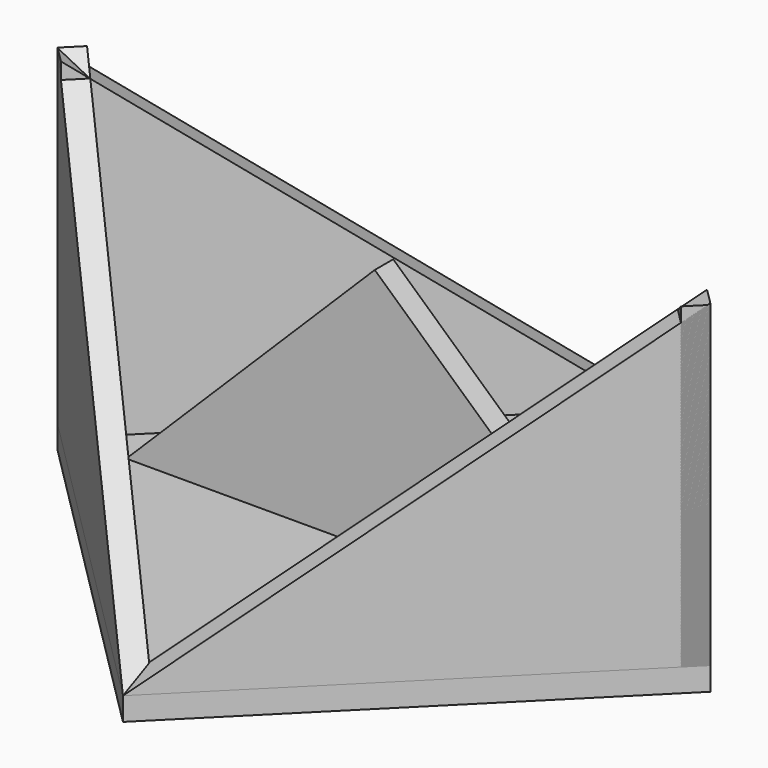
from build123d import *

# Parameters (mm, degrees)
F1_DEPTH  = 1
F3_DEPTH  = 0.5
F5_DEPTH  = 1
F7_DEPTH  = 1
F9_DEPTH  = 1
F11_DEPTH = 1


with BuildPart() as f1:
    # F0 (on Top) → F1 (new body)
    with BuildSketch(Plane.XY):
        Polygon((0, 14.142136), (-14.142136, 0), (0, -14.142136), (14.142136, 0), align=None)
    extrude(amount=F1_DEPTH)


with BuildPart() as f3:
    # F2 (on Front) → F3 (new body, symmetric)
    with BuildSketch(Plane.XZ):
        Polygon((0, 11.699272), (-10.795075, 0.971594), (11.810176, 0.971594), align=None)
    extrude(amount=F3_DEPTH, both=True)


with BuildPart() as f5:
    # F4 (on face) → F5 (new body)
    with BuildSketch(Plane(origin=(-7.071068, 7.071068, 0), x_dir=(-0.707107, -0.707107, 0), z_dir=(-0.707107, 0.707107, 0))):
        Polygon((10, 15.368261), (-10, 1), (10, 1), align=None)
    extrude(amount=-F5_DEPTH)


with BuildPart() as f7:
    # F6 (on face) → F7 (new body)
    with BuildSketch(Plane(origin=(-7.071068, -7.071068, 0), x_dir=(0.707107, -0.707107, 0), z_dir=(-0.707107, -0.707107, 0))):
        Polygon((-10, 15.379625), (-10, 1), (10, 1), align=None)
    extrude(amount=-F7_DEPTH)


with BuildPart() as f9:
    # F8 (on face) → F9 (new body)
    with BuildSketch(Plane(origin=(7.071068, -7.071068, 0), x_dir=(0.707107, 0.707107, 0), z_dir=(0.707107, -0.707107, 0))):
        Polygon((10, 14.8289), (-10, 1), (10, 1), align=None)
    extrude(amount=-F9_DEPTH)


with BuildPart() as f11:
    # F10 (on face) → F11 (new body)
    with BuildSketch(Plane(origin=(7.071068, 7.071068, 0), x_dir=(-0.707107, 0.707107, 0), z_dir=(0.707107, 0.707107, 0))):
        Polygon((-10, 1), (10, 1), (-10, 14.761985), align=None)
    extrude(amount=-F11_DEPTH)


solid = Compound([f1.part, f3.part, f5.part, f7.part, f9.part, f11.part])
